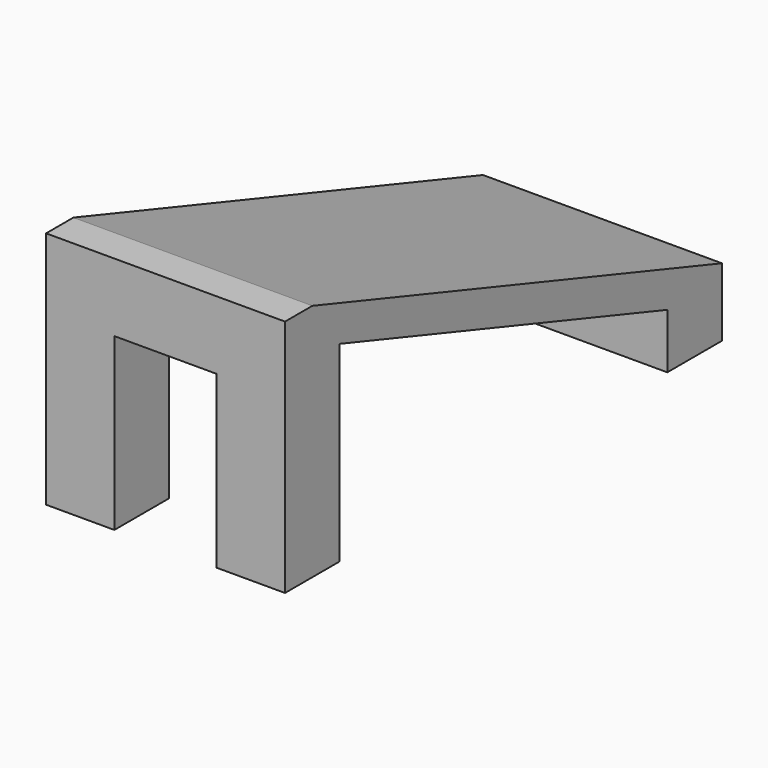
from build123d import *

# Parameters (mm, degrees)
F0_W     = 35
F0_H     = 80
F1_DEPTH = 35
F2_SIZE2 = 25
F2_SIZE  = 75
F4_DEPTH = 35.001
F5_W     = 15
F5_H     = 25
F6_DEPTH = 10


with BuildPart() as f1:
    # F0 (on Top) → F1 (new body)
    with BuildSketch(Plane.XY):
        with Locations((0, -22.5)):
            Rectangle(F0_W, F0_H)
    extrude(amount=F1_DEPTH)

    # F2
    f2_edges = [f1.edges().sort_by_distance(p)[0] for p in [
        (0, 17.5, 35),
    ]]
    f2_side = f1.faces().sort_by_distance((0, -22.5, 35))[0]
    chamfer(f2_edges, length=F2_SIZE, length2=F2_SIZE2, reference=f2_side)

    # F3 (on face) → F4 (cut, through all)
    with BuildSketch(Plane(origin=(-17.5, 0, 0), x_dir=(0, -1, 0), z_dir=(-1, 0, 0))):
        Polygon((-7.5, 8.0628705664), (-7.5, 0), (52.5, 0), (52.5, 28.0628705664), align=None)
    extrude(amount=-F4_DEPTH, mode=Mode.SUBTRACT)

    # F5 (on face) → F6 (cut)
    with BuildSketch(Plane.XZ.offset(62.5)):
        with Locations((0, 12.5)):
            Rectangle(F5_W, F5_H)
    extrude(amount=-F6_DEPTH, mode=Mode.SUBTRACT)


solid = f1.part
